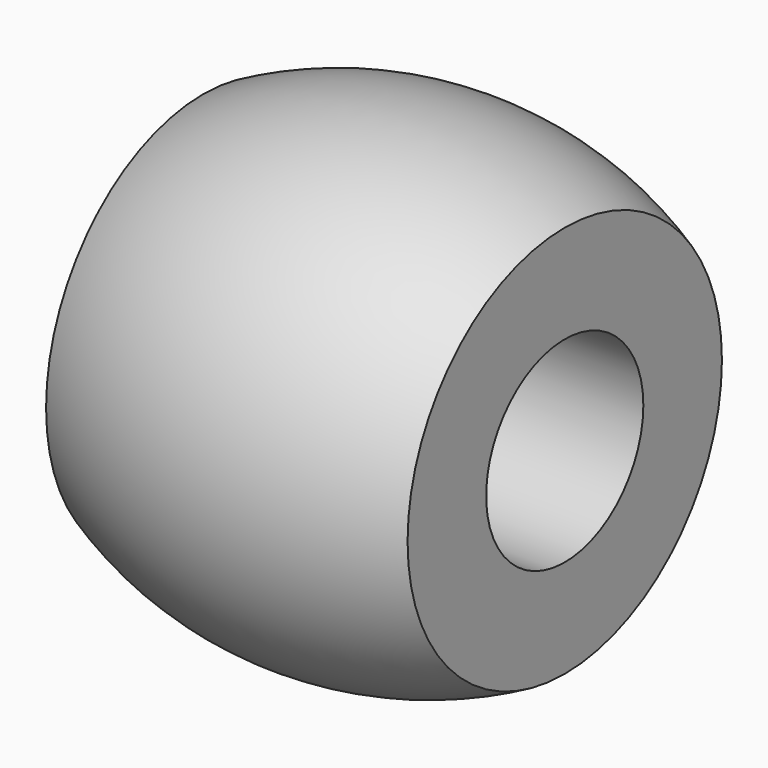
from build123d import *

# Parameters (mm, degrees)
F0_R     = 3.175
F0_R_2   = 1.5875
F1_DEPTH = 2.921


with BuildPart() as f1:
    # F0 (on Right) → F1 (new body, symmetric)
    with BuildSketch(Plane.YZ):
        Circle(F0_R)
        Circle(F0_R_2, mode=Mode.SUBTRACT)
    extrude(amount=F1_DEPTH, both=True)

    # F2 (on Front) → F3 (revolve)
    with BuildSketch(Plane.XZ):
        with BuildLine():
            ThreePointArc((2.921, 3.175), (0, 3.886715), (-2.921, 3.175))
            Line((-2.921, 3.175), (2.921, 3.175))
        make_face()
    revolve(axis=Axis((-6.415843, 0, 0), (-1, 0, 0)))


solid = f1.part
